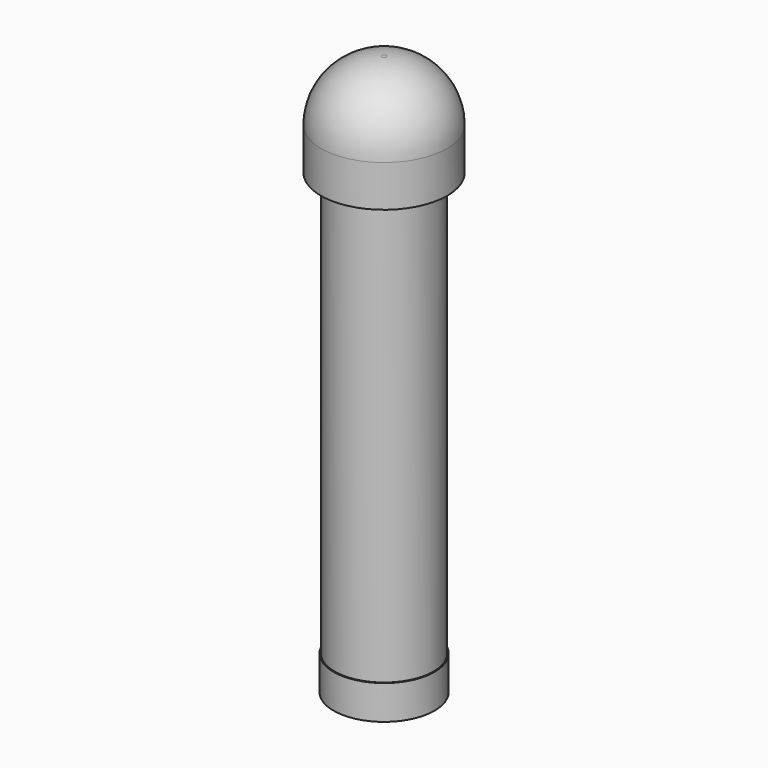
from build123d import *

# Parameters (mm, degrees)
F0_R     = 1.838454
F1_DEPTH = 15.748
F2_R     = 2.346451
F3_DEPTH = 3.81
F4_R     = 2.2606
F5_R     = 1.879007
F6_DEPTH = 1.27


with BuildPart() as f1:
    # F0 (on Top) → F1 (new body)
    with BuildSketch(Plane.XY):
        Circle(F0_R)
    extrude(amount=F1_DEPTH)


with BuildPart() as f3:
    # F2 (on face) → F3 (new body)
    with BuildSketch(Plane.XY.offset(15.748)):
        Circle(F2_R)
    extrude(amount=F3_DEPTH)

    # F4
    f4_edges = [f3.edges().sort_by_distance(p)[0] for p in [
        (-2.346451, 0, 19.558),
    ]]
    fillet(f4_edges, radius=F4_R)


with BuildPart() as f6:
    # F5 (on face) → F6 (new body)
    with BuildSketch(Plane(origin=(0, 0, 0), x_dir=(1, 0, 0), z_dir=(0, 0, -1))):
        Circle(F5_R)
    extrude(amount=F6_DEPTH)


solid = Compound([f1.part, f3.part, f6.part])
